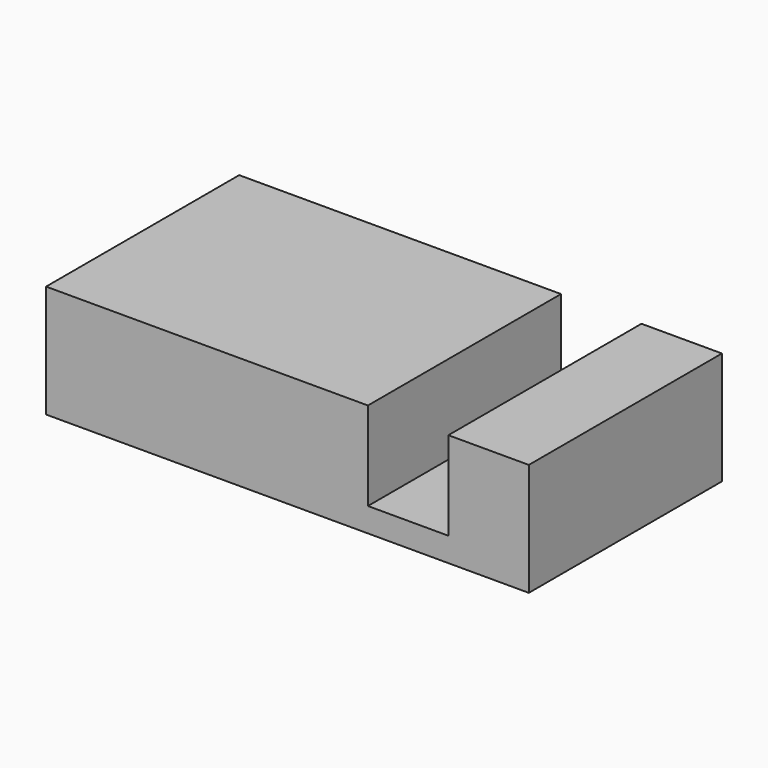
from build123d import *

# Parameters (mm, degrees)
BOX001_W     = 40
BOX001_H     = 30
BOX001_DEPTH = 14
BOX002_W     = 10
BOX002_H     = 30
BOX002_DEPTH = 14
BOX_W        = 60
BOX_H        = 30
BOX_DEPTH    = 3


with BuildPart() as cubo001:
    # Box001 → Box001 (new body)
    with BuildSketch(Plane.XY):
        with Locations((20, 15)):
            Rectangle(BOX001_W, BOX001_H)
    extrude(amount=BOX001_DEPTH)


with BuildPart() as cubo002:
    # Box002 → Box002 (new body)
    with BuildSketch(Plane(origin=(50, 0, 0), x_dir=(1, 0, 0), z_dir=(0, 0, 1))):
        with Locations((5, 15)):
            Rectangle(BOX002_W, BOX002_H)
    extrude(amount=BOX002_DEPTH)


with BuildPart() as fusion:
    # Box → Box (new body)
    with BuildSketch(Plane.XY):
        with Locations((30, 15)):
            Rectangle(BOX_W, BOX_H)
    extrude(amount=BOX_DEPTH)

    # Fusion: union Cubo001, Cubo002
    add(cubo001.part)
    add(cubo002.part)


solid = fusion.part
